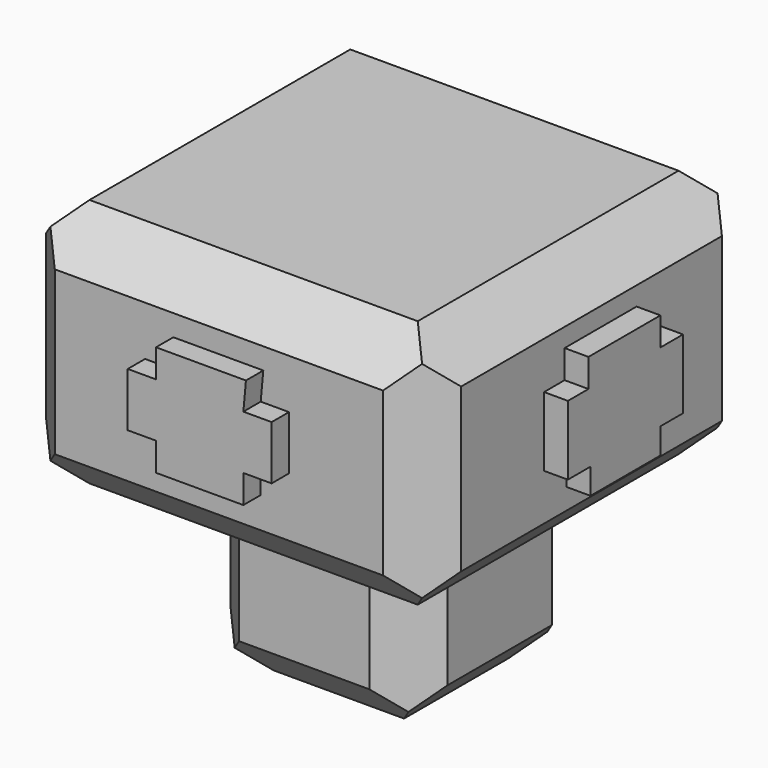
from build123d import *

# Parameters (mm, degrees)
F0_W      = 25.41670762
F0_H      = 25.4167113453
F1_DEPTH  = 26.416
F2_SIZE   = 5.08
F3_SIZE   = 5.08
F4_SIZE   = 5.08
F5_SIZE   = 5.08
F6_SIZE   = 5.08
F7_SIZE   = 5.08
F8_SIZE   = 5.08
F9_SIZE   = 5.08
F10_SIZE  = 5.08
F11_SIZE  = 5.08
F12_SIZE  = 5.08
F13_SIZE  = 5.08
F14_W     = 48.5844528303
F14_H     = 48.3157048002
F15_DEPTH = 6.096
F16_DEPTH = 23.114
F17_SIZE  = 5.08
F18_SIZE  = 5.08
F19_SIZE  = 5.08
F20_SIZE  = 5.08
F21_SIZE  = 5.08
F22_SIZE  = 5.08
F23_SIZE  = 5.08
F24_SIZE  = 5.08
F25_SIZE  = 5.08
F26_SIZE  = 5.08
F27_SIZE  = 5.08
F29_DEPTH = 2.54
F31_DEPTH = 2.286
F33_DEPTH = 2.794
F35_DEPTH = 3.302


with BuildPart() as f1:
    # F0 (on Top) → F1 (new body)
    with BuildSketch(Plane.XY):
        with Locations((12.70835381, -12.7083556727)):
            Rectangle(F0_W, F0_H)
    extrude(amount=F1_DEPTH)

    # F2
    f2_edges = [f1.edges().sort_by_distance(p)[0] for p in [
        (12.708354, -25.416711, 0),
    ]]
    chamfer(f2_edges, length=F2_SIZE)

    # F3
    f3_edges = [f1.edges().sort_by_distance(p)[0] for p in [
        (12.708354, 0, 0),
    ]]
    chamfer(f3_edges, length=F3_SIZE)

    # F4
    f4_edges = [f1.edges().sort_by_distance(p)[0] for p in [
        (12.708354, 0, 26.416),
    ]]
    chamfer(f4_edges, length=F4_SIZE)

    # F5
    f5_edges = [f1.edges().sort_by_distance(p)[0] for p in [
        (12.708354, -25.416711, 26.416),
    ]]
    chamfer(f5_edges, length=F5_SIZE)

    # F6
    f6_edges = [f1.edges().sort_by_distance(p)[0] for p in [
        (25.416708, 0, 13.208),
    ]]
    chamfer(f6_edges, length=F6_SIZE)

    # F7
    f7_edges = [f1.edges().sort_by_distance(p)[0] for p in [
        (0, 0, 13.208),
    ]]
    chamfer(f7_edges, length=F7_SIZE)

    # F8
    f8_edges = [f1.edges().sort_by_distance(p)[0] for p in [
        (0, -25.416711, 13.208),
    ]]
    chamfer(f8_edges, length=F8_SIZE)

    # F9
    f9_edges = [f1.edges().sort_by_distance(p)[0] for p in [
        (25.416708, -25.416711, 13.208),
    ]]
    chamfer(f9_edges, length=F9_SIZE)

    # F10
    f10_edges = [f1.edges().sort_by_distance(p)[0] for p in [
        (25.416708, -12.708356, 0),
    ]]
    chamfer(f10_edges, length=F10_SIZE)

    # F11
    f11_edges = [f1.edges().sort_by_distance(p)[0] for p in [
        (25.416708, -12.708356, 26.416),
    ]]
    chamfer(f11_edges, length=F11_SIZE)

    # F12
    f12_edges = [f1.edges().sort_by_distance(p)[0] for p in [
        (0, -12.708356, 0),
    ]]
    chamfer(f12_edges, length=F12_SIZE)

    # F13
    f13_edges = [f1.edges().sort_by_distance(p)[0] for p in [
        (0, -12.708356, 26.416),
    ]]
    chamfer(f13_edges, length=F13_SIZE)

    # F14 (on face) → F15 (join)
    with BuildSketch(Plane.XY.offset(26.416)):
        with Locations((12.3993125744, -13.3544201963)):
            Rectangle(F14_W, F14_H)
    extrude(amount=-F15_DEPTH)

    # F16 (add): a face of the model
    f16_faces = [f1.faces().sort_by_distance(p)[0] for p in [
        (12.3993125744, -13.3544201963, 26.416),
    ]]
    extrude(f16_faces, amount=F16_DEPTH)

    # F17
    f17_edges = [f1.edges().sort_by_distance(p)[0] for p in [
        (-11.892914, -37.512273, 34.925),
    ]]
    chamfer(f17_edges, length=F17_SIZE)

    # F18
    f18_edges = [f1.edges().sort_by_distance(p)[0] for p in [
        (14.939313, -37.512273, 49.53),
        (14.939313, -37.512273, 20.32),
    ]]
    chamfer(f18_edges, length=F18_SIZE)

    # F19
    f19_edges = [f1.edges().sort_by_distance(p)[0] for p in [
        (36.691539, -37.512273, 34.925),
    ]]
    chamfer(f19_edges, length=F19_SIZE)

    # F20
    f20_edges = [f1.edges().sort_by_distance(p)[0] for p in [
        (36.691539, -10.81442, 49.53),
    ]]
    chamfer(f20_edges, length=F20_SIZE)

    # F21
    f21_edges = [f1.edges().sort_by_distance(p)[0] for p in [
        (36.691539, -10.81442, 20.32),
    ]]
    chamfer(f21_edges, length=F21_SIZE)

    # F22
    f22_edges = [f1.edges().sort_by_distance(p)[0] for p in [
        (36.691539, 10.803432, 34.925),
    ]]
    chamfer(f22_edges, length=F22_SIZE)

    # F23
    f23_edges = [f1.edges().sort_by_distance(p)[0] for p in [
        (9.859313, 10.803432, 49.53),
    ]]
    chamfer(f23_edges, length=F23_SIZE)

    # F24
    f24_edges = [f1.edges().sort_by_distance(p)[0] for p in [
        (9.859313, 10.803432, 20.32),
    ]]
    chamfer(f24_edges, length=F24_SIZE)

    # F25
    f25_edges = [f1.edges().sort_by_distance(p)[0] for p in [
        (-11.892914, 10.803432, 34.925),
    ]]
    chamfer(f25_edges, length=F25_SIZE)

    # F26
    f26_edges = [f1.edges().sort_by_distance(p)[0] for p in [
        (-11.892914, -13.35442, 49.53),
    ]]
    chamfer(f26_edges, length=F26_SIZE)

    # F27
    f27_edges = [f1.edges().sort_by_distance(p)[0] for p in [
        (-11.892914, -13.35442, 20.32),
    ]]
    chamfer(f27_edges, length=F27_SIZE)

    # F28 (on face) → F29 (join)
    with BuildSketch(Plane.XZ.offset(37.5122725964)):
        Polygon((17.5961852074, 41.9601351023), (7.0685530081, 41.9601351023), (7.0685530081, 38.6514477432), (3.7598696072, 38.6514477432), (3.7598696072, 32.3348678648), (7.0685530081, 32.3348678648), (7.0685530081, 29.026184231), (17.2953959554, 29.026184231), (17.2953959554, 32.3348678648), (20.6040795892, 32.3348678648), (20.6040795892, 38.6514477432), (17.2953959554, 38.6514477432), align=None)
    extrude(amount=F29_DEPTH)

    # F30 (on face) → F31 (join)
    with BuildSketch(Plane(origin=(0, 10.8034322038, 0), x_dir=(-1, 0, 0), z_dir=(0, 1, 0))):
        Polygon((-6.7677642219, 38.9522351325), (-6.7677642219, 42.2609224916), (-15.4906576499, 42.2609224916), (-15.4906576499, 38.9522351325), (-18.7993440777, 38.9522351325), (-18.7993440777, 31.1317108572), (-15.4906576499, 31.1317108572), (-15.4906576499, 27.8230272233), (-6.7677642219, 27.8230272233), (-6.7677642219, 31.1317108572), (-3.4590810537, 31.1317108572), (-3.4590810537, 38.9522351325), align=None)
    extrude(amount=F31_DEPTH)

    # F32 (on face) → F33 (join)
    with BuildSketch(Plane.YZ.offset(36.6915389895)):
        Polygon((-6.7677642219, 38.9522351325), (-6.7677642219, 42.2609224916), (-17.2953940928, 42.2609224916), (-17.2953940928, 38.9522351325), (-20.3032903373, 38.9522351325), (-20.3032903373, 30.8309197426), (-16.9946048409, 30.8309197426), (-16.9946048409, 27.8230272233), (-6.7677642219, 27.8230272233), (-6.7677642219, 30.8309197426), (-3.4590810537, 30.8309197426), (-3.4590810537, 38.9522351325), align=None)
    extrude(amount=F33_DEPTH)

    # F34 (on face) → F35 (join)
    with BuildSketch(Plane(origin=(-11.8929138407, 0, 0), x_dir=(0, -1, 0), z_dir=(-1, 0, 0))):
        Polygon((19.7017118335, 42.2609224916), (8.2717109472, 42.2609224916), (8.2717109472, 38.9522351325), (4.9630273134, 38.9522351325), (4.9630273134, 31.1317108572), (8.2717109472, 31.1317108572), (8.2717109472, 27.8230272233), (19.7017118335, 27.8230272233), (19.7017118335, 31.1317108572), (23.0103954673, 31.1317108572), (23.0103954673, 38.9522351325), (19.7017118335, 38.9522351325), align=None)
    extrude(amount=F35_DEPTH)


solid = f1.part
